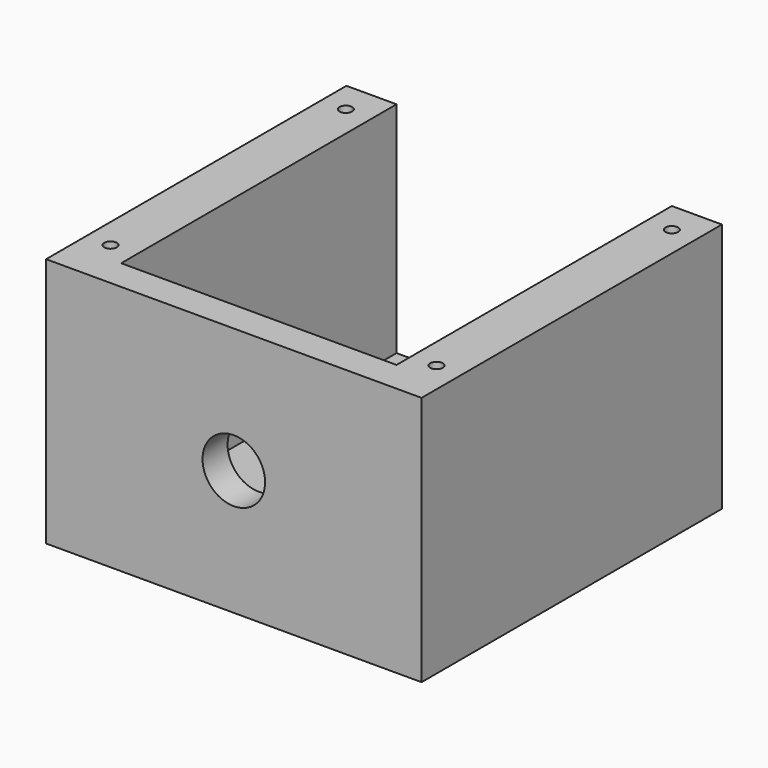
from build123d import *

# Parameters (mm, degrees)
F0_W     = 60
F0_H     = 40
F1_DEPTH = 60
F2_W     = 44
F2_H     = 55
F3_DEPTH = 35
F4_R     = 5
F5_DEPTH = 25
F7_R     = 1
F8_DEPTH = 5


with BuildPart() as f1:
    # F0 (on Front) → F1 (new body)
    with BuildSketch(Plane.XZ):
        Rectangle(F0_W, F0_H)
    extrude(amount=F1_DEPTH)

    # F2 (on face) → F3 (cut)
    with BuildSketch(Plane.XY.offset(20)):
        with Locations((0, -27.5)):
            Rectangle(F2_W, F2_H)
    extrude(amount=-F3_DEPTH, mode=Mode.SUBTRACT)

    # F4 (on face) → F5 (cut)
    with BuildSketch(Plane.XZ.offset(60)):
        Circle(F4_R)
    extrude(amount=-F5_DEPTH, mode=Mode.SUBTRACT)

    # F7 (on face) → F8 (cut)
    with BuildSketch(Plane.XY.offset(20)):
        with Locations((-26.1, -5)):
            Circle(F7_R)
        with Locations((26, -5)):
            Circle(F7_R)
        with Locations((26, -52)):
            Circle(F7_R)
        with Locations((-26.1, -52)):
            Circle(F7_R)
    extrude(amount=-F8_DEPTH, mode=Mode.SUBTRACT)


solid = f1.part
